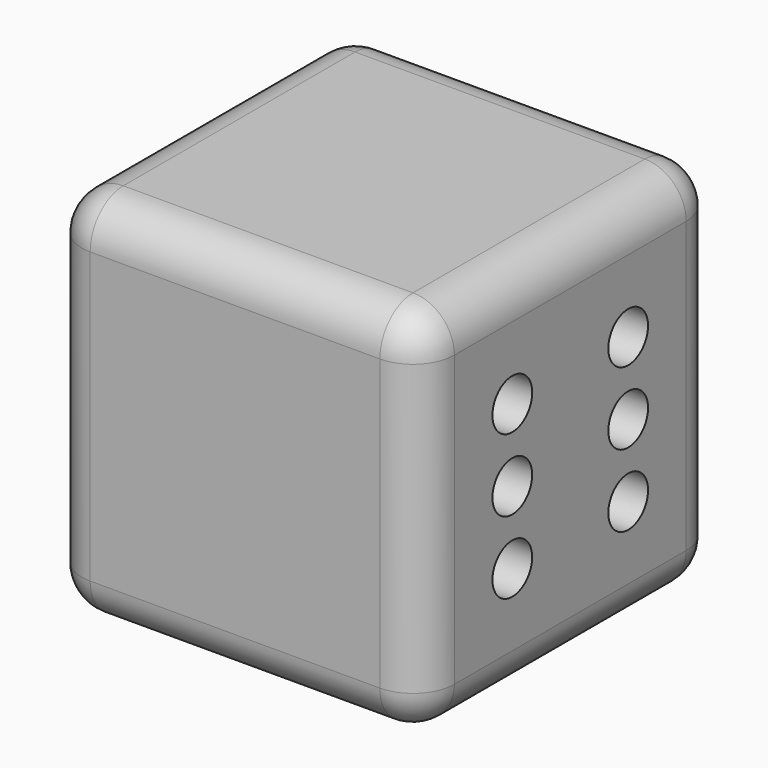
from build123d import *

# Parameters (mm, degrees)
F1_DEPTH = 45
F2_R     = 5
F3_R     = 5
F4_R     = 3
F5_DEPTH = 6
F6_R     = 3
F7_DEPTH = 6


with BuildPart() as f1:
    # F0 (on Front) → F1 (new body)
    with BuildSketch(Plane.XZ):
        with BuildLine():
            Line((17.5, 22.5), (-17.5, 22.5))
            ThreePointArc((-17.5, 22.5), (-21.0355339059, 21.0355339059), (-22.5, 17.5))
            Line((-22.5, 17.5), (-22.5, -17.5))
            ThreePointArc((-22.5, -17.5), (-21.0355339059, -21.0355339059), (-17.5, -22.5))
            Line((-17.5, -22.5), (17.5, -22.5))
            ThreePointArc((17.5, -22.5), (21.0355339059, -21.0355339059), (22.5, -17.5))
            Line((22.5, -17.5), (22.5, 17.5))
            ThreePointArc((22.5, 17.5), (21.0355339059, 21.0355339059), (17.5, 22.5))
        make_face()
    extrude(amount=F1_DEPTH)

    # F2
    f2_edges = [f1.edges().sort_by_distance(p)[0] for p in [
        (0, -45, 22.5),
        (-21.035534, -45, 21.035534),
        (-22.5, -45, 0),
        (-21.035534, -45, -21.035534),
        (0, -45, -22.5),
        (21.035534, -45, -21.035534),
        (22.5, -45, 0),
        (21.035534, -45, 21.035534),
    ]]
    fillet(f2_edges, radius=F2_R)

    # F3
    f3_edges = [f1.edges().sort_by_distance(p)[0] for p in [
        (0, 0, 22.5),
        (-21.035534, 0, 21.035534),
        (-22.5, 0, 0),
        (-21.035534, 0, -21.035534),
        (0, 0, -22.5),
        (21.035534, 0, -21.035534),
        (22.5, 0, 0),
        (21.035534, 0, 21.035534),
    ]]
    fillet(f3_edges, radius=F3_R)

    # F4 (on face) → F5 (cut)
    with BuildSketch(Plane(origin=(-22.5, 0, 0), x_dir=(0, -1, 0), z_dir=(-1, 0, 0))):
        with Locations((22.5, 0)):
            Circle(F4_R)
    extrude(amount=-F5_DEPTH, mode=Mode.SUBTRACT)

    # F6 (on face) → F7 (cut)
    with BuildSketch(Plane.YZ.offset(22.5)):
        with Locations((-31.25, 8.75)):
            Circle(F6_R)
        with Locations((-31.25, 0)):
            Circle(F6_R)
        with Locations((-31.25, -8.75)):
            Circle(F6_R)
        with Locations((-13.75, -8.75)):
            Circle(F6_R)
        with Locations((-13.75, 0)):
            Circle(F6_R)
        with Locations((-13.75, 8.75)):
            Circle(F6_R)
    extrude(amount=-F7_DEPTH, mode=Mode.SUBTRACT)


solid = f1.part
